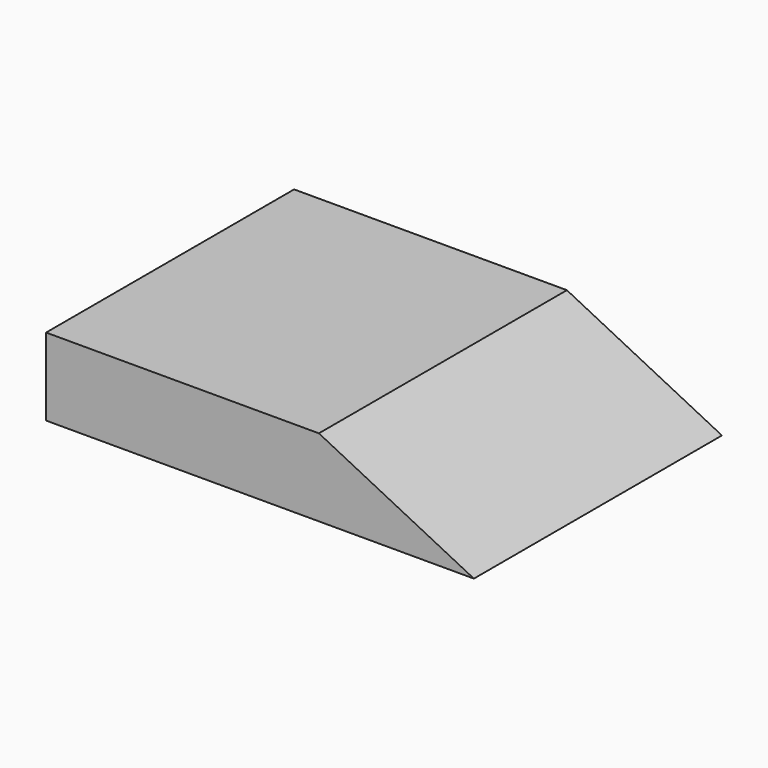
from build123d import *

# Parameters (mm, degrees)
F0_W     = 27.6
F0_H     = 20
F1_DEPTH = 5
F3_DEPTH = 20.001


with BuildPart() as f1:
    # F0 (on Top) → F1 (new body)
    with BuildSketch(Plane.XY):
        with Locations((13.8, 0)):
            Rectangle(F0_W, F0_H)
    extrude(amount=F1_DEPTH)

    # F2 (on face) → F3 (cut, through all)
    with BuildSketch(Plane.XZ.offset(10)):
        Polygon((27.6, 5), (17.6, 5), (27.6, 0), align=None)
    extrude(amount=-F3_DEPTH, mode=Mode.SUBTRACT)


solid = f1.part
